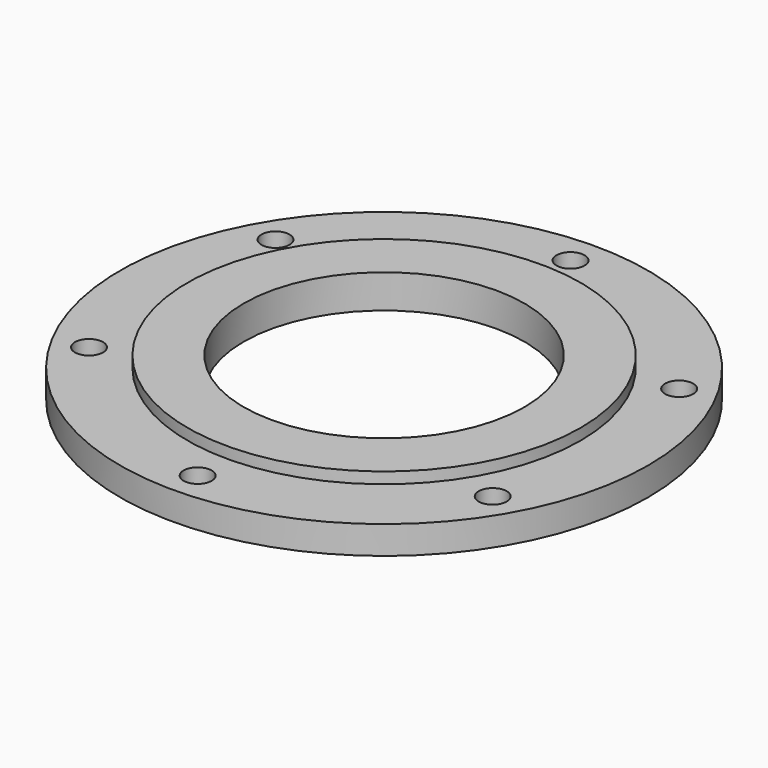
from build123d import *

# Parameters (mm, degrees)
F0_R     = 47
F0_R_2   = 2.5
F0_R_3   = 25
F1_DEPTH = 5
F2_R     = 35
F2_R_2   = 25
F3_DEPTH = 2
F4_R     = 46
F5_DEPTH = 1


with BuildPart() as f1:
    # F0 (on Top) → F1 (new body)
    with BuildSketch(Plane.XY):
        Circle(F0_R)
        with Locations((-35.940054, -20.75)):
            Circle(F0_R_2, mode=Mode.SUBTRACT)
        with Locations((0, -41.5)):
            Circle(F0_R_2, mode=Mode.SUBTRACT)
        with Locations((35.940054, -20.75)):
            Circle(F0_R_2, mode=Mode.SUBTRACT)
        with Locations((-35.940054, 20.75)):
            Circle(F0_R_2, mode=Mode.SUBTRACT)
        Circle(F0_R_3, mode=Mode.SUBTRACT)
        with Locations((35.940054, 20.75)):
            Circle(F0_R_2, mode=Mode.SUBTRACT)
        with Locations((0, 41.5)):
            Circle(F0_R_2, mode=Mode.SUBTRACT)
    extrude(amount=F1_DEPTH)

    # F2 (on face) → F3 (join)
    with BuildSketch(Plane.XY.offset(5)):
        Circle(F2_R)
        Circle(F2_R_2, mode=Mode.SUBTRACT)
    extrude(amount=F3_DEPTH)

    # F4 (on face) → F5 (cut)
    with BuildSketch(Plane(origin=(0, 0, 0), x_dir=(1, 0, 0), z_dir=(0, 0, -1))):
        Circle(F4_R)
    extrude(amount=-F5_DEPTH, mode=Mode.SUBTRACT)


solid = f1.part
